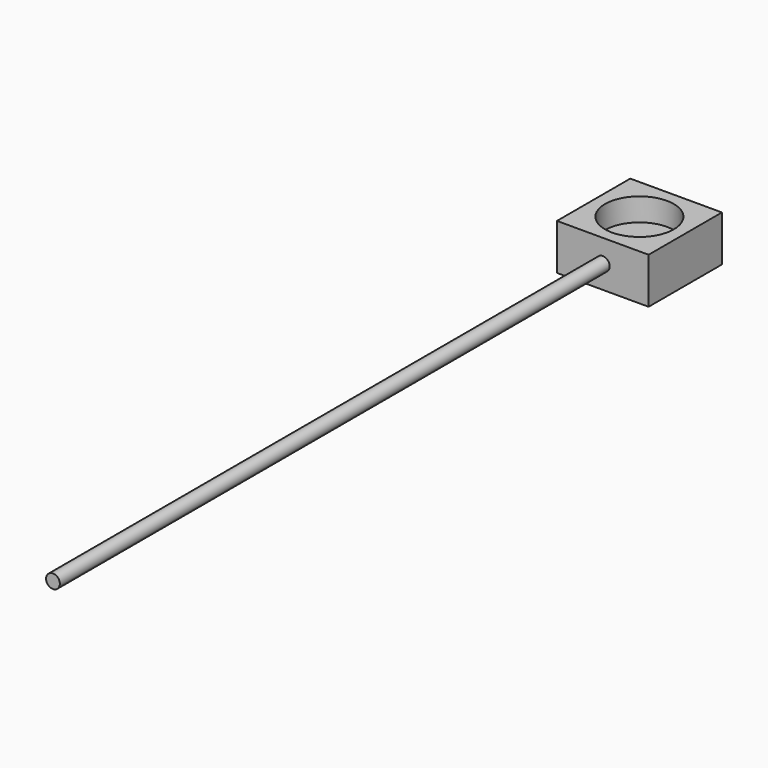
from build123d import *

# Parameters (mm, degrees)
F0_R     = 3
F1_DEPTH = 340
F2_W     = 40
F2_H     = 20
F3_DEPTH = 40
F4_R     = 15
F5_DEPTH = 10


with BuildPart() as f1:
    # F0 (on Front) → F1 (new body)
    with BuildSketch(Plane.XZ):
        Circle(F0_R)
    extrude(amount=F1_DEPTH)

    # F2 (on Front) → F3 (join)
    with BuildSketch(Plane.XZ):
        Rectangle(F2_W, F2_H)
    extrude(amount=F3_DEPTH)

    # F4 (on face) → F5 (cut)
    with BuildSketch(Plane.XY.offset(10)):
        with Locations((0, -20)):
            Circle(F4_R)
    extrude(amount=-F5_DEPTH, mode=Mode.SUBTRACT)


solid = f1.part
